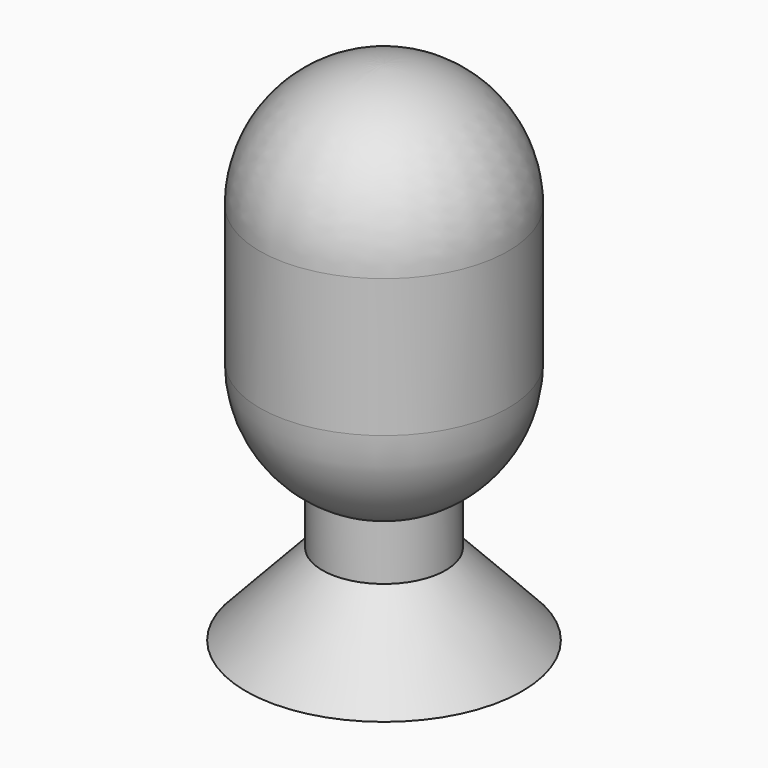
from build123d import *


with BuildPart() as f1:
    # F0 (on Right) → F1 (revolve)
    with BuildSketch(Plane.YZ):
        with BuildLine():
            Line((-500, 0), (0, 0))
            Line((0, 0), (0, 1836.209554))
            ThreePointArc((0, 1836.209554), (-318.198052, 1704.407606), (-450, 1386.209554))
            Line((-450, 1386.209554), (-450, 886.209554))
            ThreePointArc((-450, 886.209554), (-389.203541, 660.332145), (-223.241761, 495.488277))
            Line((-223.241761, 495.488277), (-223.241761, 295.488277))
            Line((-223.241761, 295.488277), (-500, 0))
        make_face()
    revolve(axis=Axis((0, 0, 1099.611875), (0, 0, 1)))


solid = f1.part
